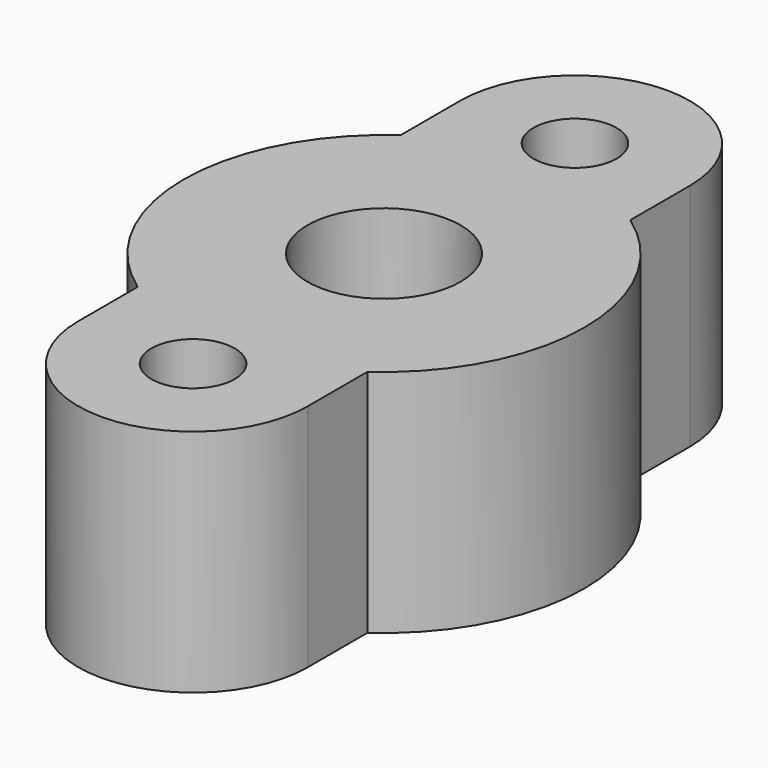
from build123d import *

# Parameters (mm, degrees)
F0_R     = 1.7272
F0_R_2   = 3.175
F1_DEPTH = 9.525
F3_DEPTH = 3.175


with BuildPart() as f1:
    # F0 (on Top) → F1 (new body)
    with BuildSketch(Plane.XY):
        with BuildLine():
            Line((-4.7625, 9.895144), (-4.7625, 6.807021))
            ThreePointArc((-4.7625, 6.807021), (-8.307644, 0), (-4.7625, -6.807021))
            Line((-4.7625, -6.807021), (-4.7625, -9.895144))
            ThreePointArc((-4.7625, -9.895144), (0, -14.657644), (4.7625, -9.895144))
            Line((4.7625, -9.895144), (4.7625, -6.807021))
            ThreePointArc((4.7625, -6.807021), (8.307644, 0), (4.7625, 6.807021))
            Line((4.7625, 6.807021), (4.7625, 9.895144))
            ThreePointArc((4.7625, 9.895144), (0, 14.657644), (-4.7625, 9.895144))
        make_face()
        with Locations((0, -9.895144)):
            Circle(F0_R, mode=Mode.SUBTRACT)
        Circle(F0_R_2, mode=Mode.SUBTRACT)
        with Locations((0, 9.895144)):
            Circle(F0_R, mode=Mode.SUBTRACT)
    extrude(amount=F1_DEPTH)

    # F2 (on face) → F3 (cut)
    with BuildSketch(Plane(origin=(0, 0, 0), x_dir=(1, 0, 0), z_dir=(0, 0, -1))):
        Polygon((-2.566322, 4.445), (-5.132644, 0), (-2.566322, -4.445), (2.566322, -4.445), (5.132644, 0), (2.566322, 4.445), align=None)
    extrude(amount=-F3_DEPTH, mode=Mode.SUBTRACT)


solid = f1.part
